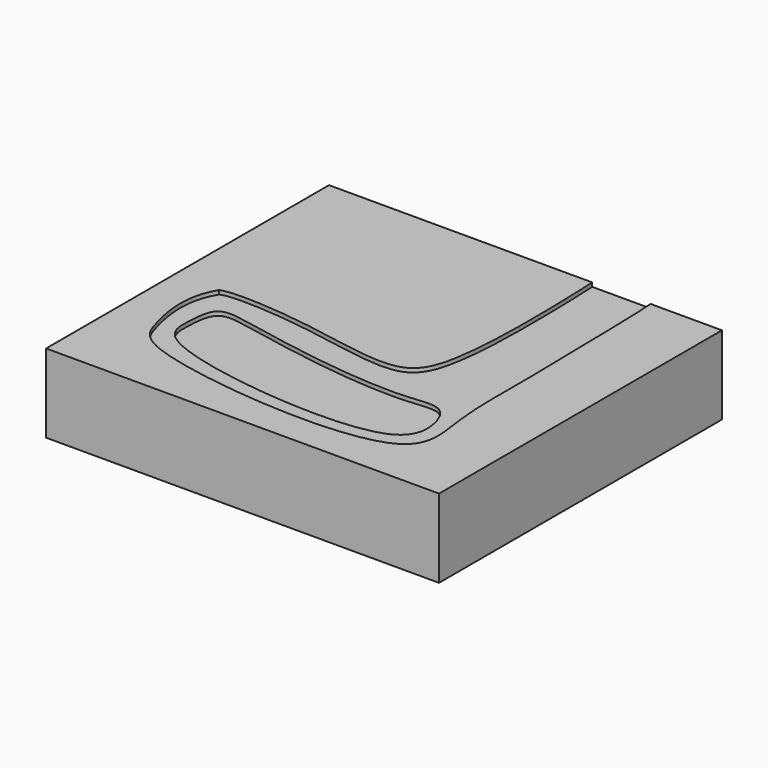
from build123d import *

# Parameters (mm, degrees)
F0_W     = 127
F0_H     = 114.3
F1_DEPTH = 25.4
F3_DEPTH = 1.27
F5_DEPTH = 1.27


with BuildPart() as f1:
    # F0 (on Top) → F1 (new body)
    with BuildSketch(Plane.XY):
        with Locations((63.5, 57.15)):
            Rectangle(F0_W, F0_H)
    extrude(amount=F1_DEPTH)

    # F2 (on face) → F3 (cut)
    with BuildSketch(Plane.XY.offset(25.4)):
        with BuildLine():
            add(Edge.make_bspline(
                [(14.1847563811, 52.2055240917), (17.4487959109, 53.7079227085), (44.0648456389, 52.3834737993), (76.3646543067, 43.8224977855), (86.876160603, 58.6900123256), (85.7991725206, 98.7972319126), (85.0884243846, 114.3)],
                knots=[0, 0, 0, 0, 0.2391860512, 0.4977603129, 0.6648459321, 1, 1, 1, 1], degree=3))
            add(Edge.make_bspline(
                [(14.1847563811, 52.2055240917), (9.3520639285, 44.3586118248), (12.6536367905, 27.3638536613), (18.8402383609, 13.1893525319), (111.1929834742, 4.3184234807), (106.0842219021, 31.5919931867), (105.011416035, 45.8787461527), (105.453560332, 56.0596204571), (104.4717881583, 103.8925926493), (104.1626564269, 112.1080434235), (103.9274847168, 114.3)],
                knots=[0, 0, 0, 0, 0.125167649, 0.2241295981, 0.4526613861, 0.5590531122, 0.654439907, 0.7410544741, 0.9181350115, 1, 1, 1, 1], degree=3))
            Line((103.9274847168, 114.3), (85.0884243846, 114.3))
        make_face()
    extrude(amount=-F3_DEPTH, mode=Mode.SUBTRACT)

    # F4 (on face) → F5 (cut)
    with BuildSketch(Plane.XY.offset(24.13)):
        with BuildLine():
            add(Edge.make_bspline(
                [(17.3297971487, 36.0093638301), (17.1264335807, 32.1824747761), (16.7468664577, 19.990502465), (99.4656784545, 11.0394241251), (101.8550549051, 29.9085688187), (97.288582885, 39.9784776436), (85.0653254375, 37.3506070875), (58.7990104766, 39.0558539778), (31.3772513508, 44.4144756293), (18.0443954585, 47.1135718459), (17.5112593814, 39.4241142635), (17.3297971487, 36.0093638301)],
                knots=[0, 0, 0, 0, 0.0873823539, 0.3096906394, 0.4012120879, 0.4782072039, 0.5618270224, 0.6974413037, 0.838945922, 0.9220283299, 1, 1, 1, 1], degree=3))
        make_face()
    extrude(amount=-F5_DEPTH, mode=Mode.SUBTRACT)


solid = f1.part
